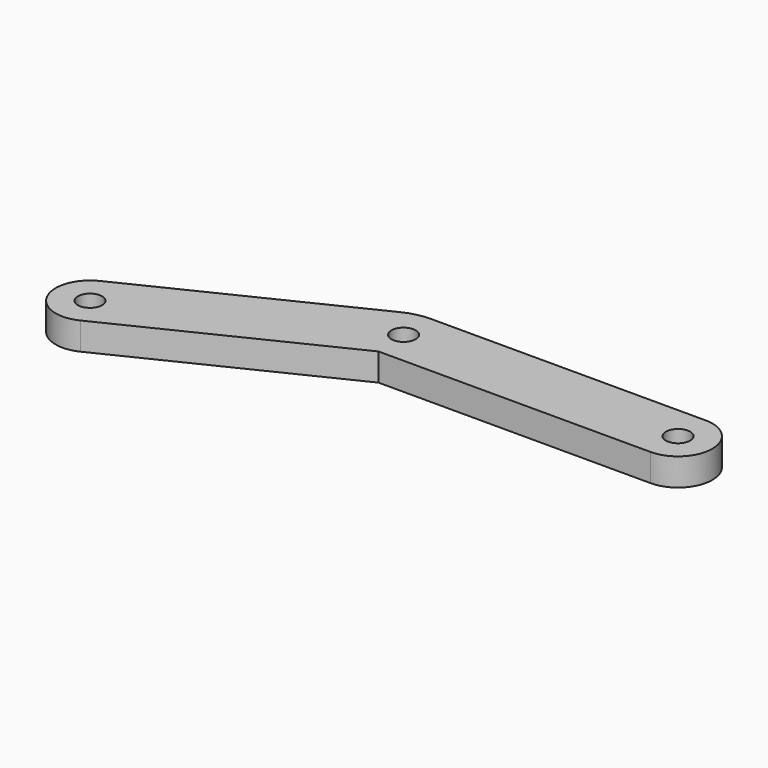
from build123d import *

# Parameters (mm, degrees)
F0_R     = 2.65
F1_DEPTH = 6


with BuildPart() as f1:
    # F0 (on Top) → F1 (new body)
    with BuildSketch(Plane.XY):
        with BuildLine():
            Line((0.50822, -7.5), (60, -7.5))
            ThreePointArc((60, -7.5), (67.5, 0), (60, 7.5))
            Line((60, 7.5), (0, 7.5))
            ThreePointArc((0, 7.5), (-2.876848, 7.172444), (-5.606425, 6.206546))
            Line((-5.606425, 6.206546), (-52.958914, -16.871113))
            ThreePointArc((-52.958914, -16.871113), (-56.415113, -26.898809), (-46.387417, -30.355008))
            Line((-46.387417, -30.355008), (0.50822, -7.5))
        make_face()
        with Locations((-49.673166, -23.61306)):
            Circle(F0_R, mode=Mode.SUBTRACT)
        Circle(F0_R, mode=Mode.SUBTRACT)
        with Locations((60, 0)):
            Circle(F0_R, mode=Mode.SUBTRACT)
    extrude(amount=F1_DEPTH)


solid = f1.part
